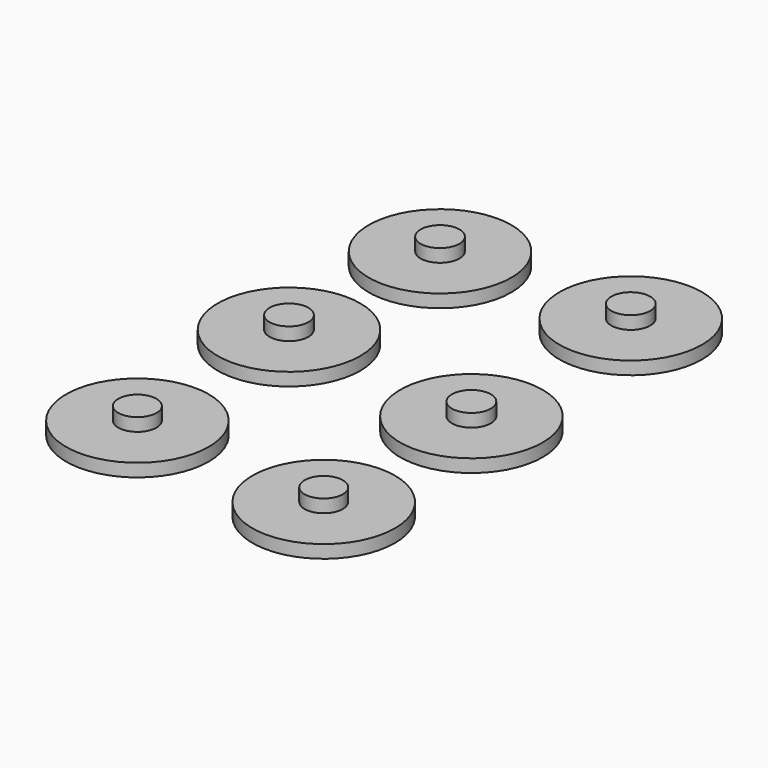
from build123d import *

# Parameters (mm, degrees)
F0_R     = 11
F0_R_2   = 3
F0_R_3   = 2.95
F1_DEPTH = 2
F2_DEPTH = 4


with BuildPart() as f1:
    # F0 (on Top) → F1 (new body)
    with BuildSketch(Plane.XY):
        with Locations((-16.358413, 18.725798)):
            Circle(F0_R)
        with Locations((-16.358413, 18.725798)):
            Circle(F0_R_2, mode=Mode.SUBTRACT)
        with Locations((12.513881, 19.411294)):
            Circle(F0_R)
        with Locations((12.513881, 19.411294)):
            Circle(F0_R_2, mode=Mode.SUBTRACT)
        with Locations((-17.799996, -8.596487)):
            Circle(F0_R)
        with Locations((-17.799996, -8.596487)):
            Circle(F0_R_2, mode=Mode.SUBTRACT)
        with Locations((13.453414, -12.493762)):
            Circle(F0_R)
        with Locations((13.453414, -12.493762)):
            Circle(F0_R_2, mode=Mode.SUBTRACT)
        with Locations((-17.243534, -38.526982)):
            Circle(F0_R)
        with Locations((-17.243534, -38.526982)):
            Circle(F0_R_3, mode=Mode.SUBTRACT)
        with Locations((13.540998, -41.080326)):
            Circle(F0_R)
        with Locations((13.540998, -41.080326)):
            Circle(F0_R_3, mode=Mode.SUBTRACT)
    extrude(amount=F1_DEPTH)


with BuildPart() as f2:
    # F0 (on Top) → F2 (new body)
    with BuildSketch(Plane.XY):
        with Locations((-16.358413, 18.725798)):
            Circle(F0_R_2)
        with Locations((12.513881, 19.411294)):
            Circle(F0_R_2)
        with Locations((-17.799996, -8.596487)):
            Circle(F0_R_2)
        with Locations((13.453414, -12.493762)):
            Circle(F0_R_2)
        with Locations((-17.243534, -38.526982)):
            Circle(F0_R_3)
        with Locations((13.540998, -41.080326)):
            Circle(F0_R_3)
    extrude(amount=F2_DEPTH)


solid = Compound([f1.part, f2.part])
